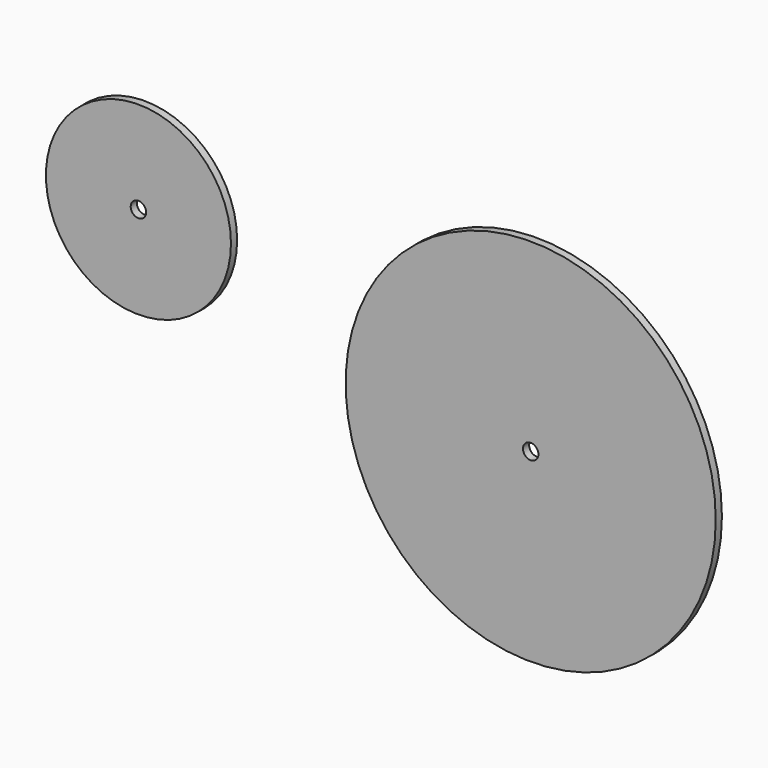
from build123d import *

# Parameters (mm, degrees)
F1_R     = 76.2
F1_R_2   = 6.35
F0_R     = 152.4
F0_R_2   = 6.35
F2_DEPTH = 6.35


with BuildPart() as f2:
    # F1 (on Front) + F0 (on Front) → F2 (new body)
    with BuildSketch(Plane.XZ):
        with Locations((-323.043108, 70.408728)):
            Circle(F1_R)
        with Locations((-323.043108, 70.408728)):
            Circle(F1_R_2, mode=Mode.SUBTRACT)
    with BuildSketch(Plane.XZ):
        Circle(F0_R)
        Circle(F0_R_2, mode=Mode.SUBTRACT)
    extrude(amount=F2_DEPTH)


solid = f2.part
